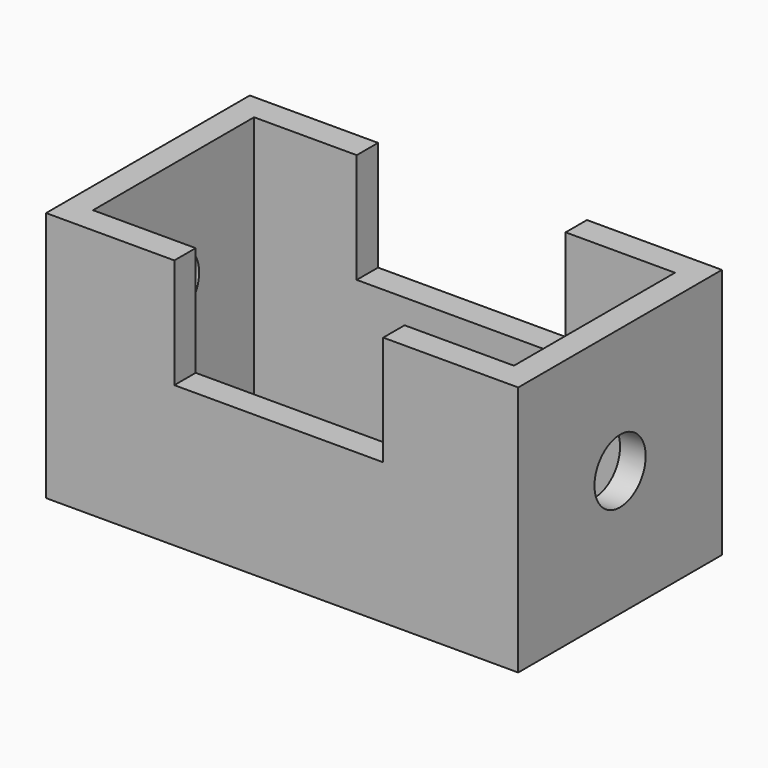
from build123d import *

# Parameters (mm, degrees)
F0_W     = 191.1350041628
F0_H     = 103.0816659331
F0_W_2   = 170.391663909
F0_H_2   = 81.4916715026
F1_DEPTH = 101.6
F2_W     = 84.5615752041
F2_H     = 10.7949972153
F3_DEPTH = 44.45
F4_W     = 84.5615752041
F4_H     = 10.7949972153
F5_DEPTH = 44.45
F6_R     = 12.9453213724
F7_DEPTH = 25.4
F8_R     = 12.9608479871
F9_DEPTH = 25.4


with BuildPart() as f1:
    # F0 (on Top) → F1 (new body)
    with BuildSketch(Plane.XY):
        Rectangle(F0_W, F0_H)
        Rectangle(F0_W_2, F0_H_2, mode=Mode.SUBTRACT)
    extrude(amount=F1_DEPTH)

    # F2 (on face) → F3 (cut)
    with BuildSketch(Plane.XY.offset(101.6)):
        with Locations((-1.3613607734, -46.1433343589)):
            Rectangle(F2_W, F2_H)
    extrude(amount=-F3_DEPTH, mode=Mode.SUBTRACT)

    # F4 (on face) → F5 (cut)
    with BuildSketch(Plane.XY.offset(101.6)):
        with Locations((-1.3613607734, 46.1433343589)):
            Rectangle(F4_W, F4_H)
    extrude(amount=-F5_DEPTH, mode=Mode.SUBTRACT)

    # F6 (on face) → F7 (cut)
    with BuildSketch(Plane(origin=(-95.5675020814, 0, 0), x_dir=(0, -1, 0), z_dir=(-1, 0, 0))):
        with Locations((0, 57.6301626861)):
            Circle(F6_R)
    extrude(amount=-F7_DEPTH, mode=Mode.SUBTRACT)

    # F8 (on face) → F9 (cut)
    with BuildSketch(Plane.YZ.offset(95.5675020814)):
        with Locations((0, 50.8931577206)):
            Circle(F8_R)
    extrude(amount=-F9_DEPTH, mode=Mode.SUBTRACT)


solid = f1.part
